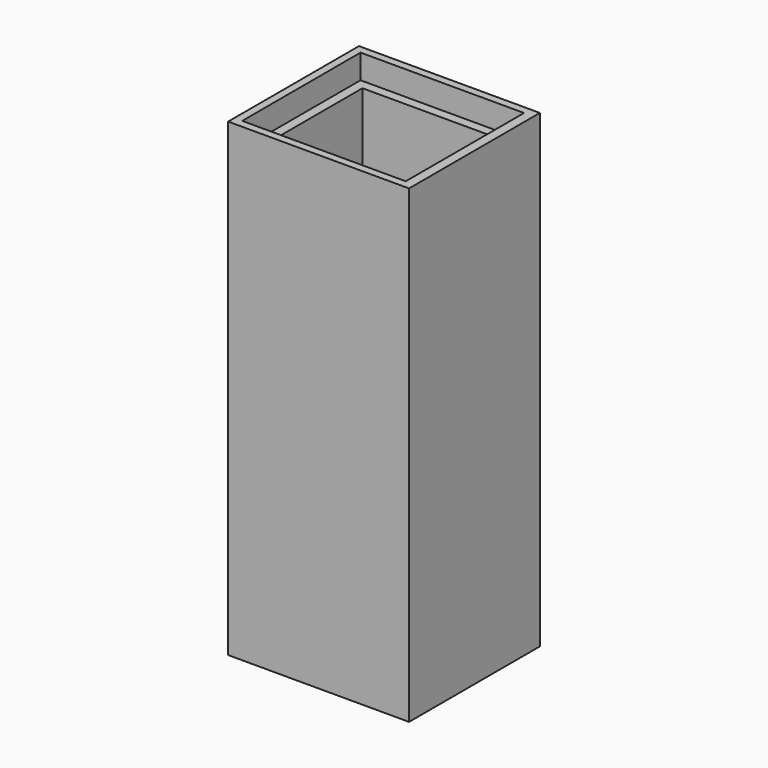
from build123d import *

# Parameters (mm, degrees)
SKETCH132_W             = 47
SKETCH132_H             = 52
SKETCH132_W_2           = 37
SKETCH132_H_2           = 42
PAD068_DEPTH            = 135
SKETCH134_W             = 42.5
SKETCH134_H             = 47
POCKET058_DEPTH         = 7
SKETCH130_W             = 23
SKETCH130_H             = 2.25
POCKET059_DEPTH         = 15
BODY038_PLACEMENT_ANGLE = 90


with BuildPart() as part:
    # Sketch132 → Pad068 (new body)
    with BuildSketch(Plane.XY):
        with Locations((0, -26)):
            Rectangle(SKETCH132_W, SKETCH132_H)
        with Locations((0, -26)):
            Rectangle(SKETCH132_W_2, SKETCH132_H_2, mode=Mode.SUBTRACT)
    extrude(amount=PAD068_DEPTH)

    # Sketch134 (on Face10 of Pad068) → Pocket058 (cut)
    with BuildSketch(Plane.XY.offset(135)):
        with Locations((0, -25.75)):
            Rectangle(SKETCH134_W, SKETCH134_H)
    extrude(amount=-POCKET058_DEPTH, mode=Mode.SUBTRACT)

    # Sketch130 (on Face15 of Pocket058) → Pocket059 (cut)
    with BuildSketch(Plane.XY.offset(128)):
        with Locations((0, -48.125)):
            Rectangle(SKETCH130_W, SKETCH130_H)
    extrude(amount=-POCKET059_DEPTH, mode=Mode.SUBTRACT)


with BuildPart() as part_1:
    # Body038 placement: moved
    add(part.part.rotate(Axis((0, 0, 0), (0, 0, 1)), BODY038_PLACEMENT_ANGLE))


solid = part_1.part
